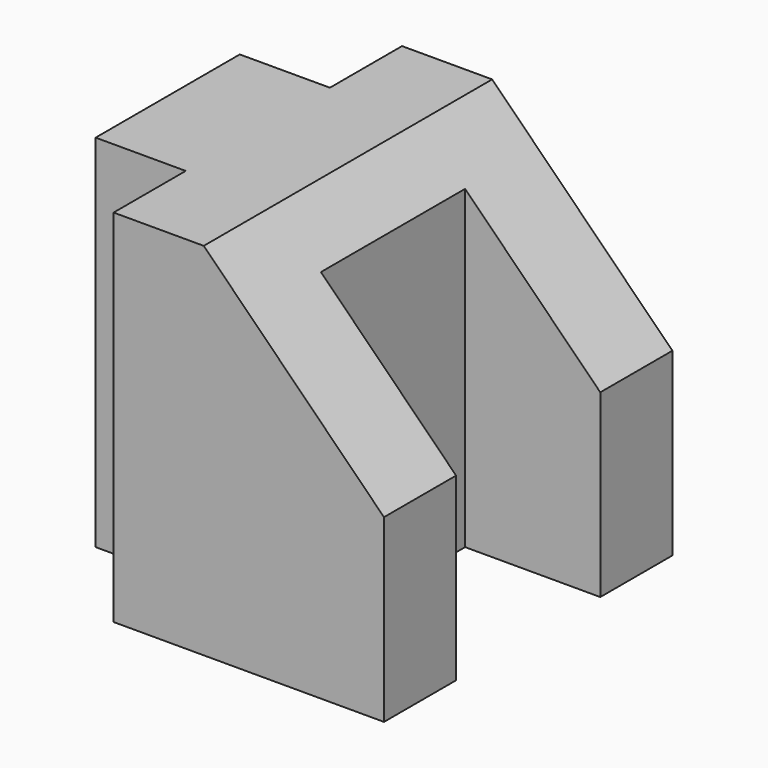
from build123d import *

# Parameters (mm, degrees)
F0_W     = 50.8
F0_H     = 50.8
F1_DEPTH = 50.8
F3_DEPTH = 50.801
F4_W     = 12.7
F4_H     = 12.7030098811
F5_DEPTH = 50.801
F7_W     = 19.05
F7_H     = 25.4
F8_DEPTH = 76.201


with BuildPart() as f1:
    # F0 (on Front) → F1 (new body)
    with BuildSketch(Plane.XZ):
        with Locations((25.4, 25.4)):
            Rectangle(F0_W, F0_H)
    extrude(amount=F1_DEPTH)

    # F2 (on face) → F3 (cut, through all)
    with BuildSketch(Plane.XZ.offset(50.8)):
        Polygon((50.8, 50.8), (25.4, 50.8), (50.8, 25.4), align=None)
    extrude(amount=-F3_DEPTH, mode=Mode.SUBTRACT)

    # F4 (on face) → F5 (cut, through all)
    with BuildSketch(Plane.XY.offset(50.8)):
        with Locations((6.35, -6.3515049405)):
            Rectangle(F4_W, F4_H)
        with Locations((6.35, -44.4484950595)):
            Rectangle(F4_W, F4_H)
    extrude(amount=-F5_DEPTH, mode=Mode.SUBTRACT)

    # F7 (on offset) → F8 (cut, through all)
    with BuildSketch(Plane.XY.offset(76.2)):
        with Locations((41.275, -25.4)):
            Rectangle(F7_W, F7_H)
    extrude(amount=-F8_DEPTH, mode=Mode.SUBTRACT)


solid = f1.part
